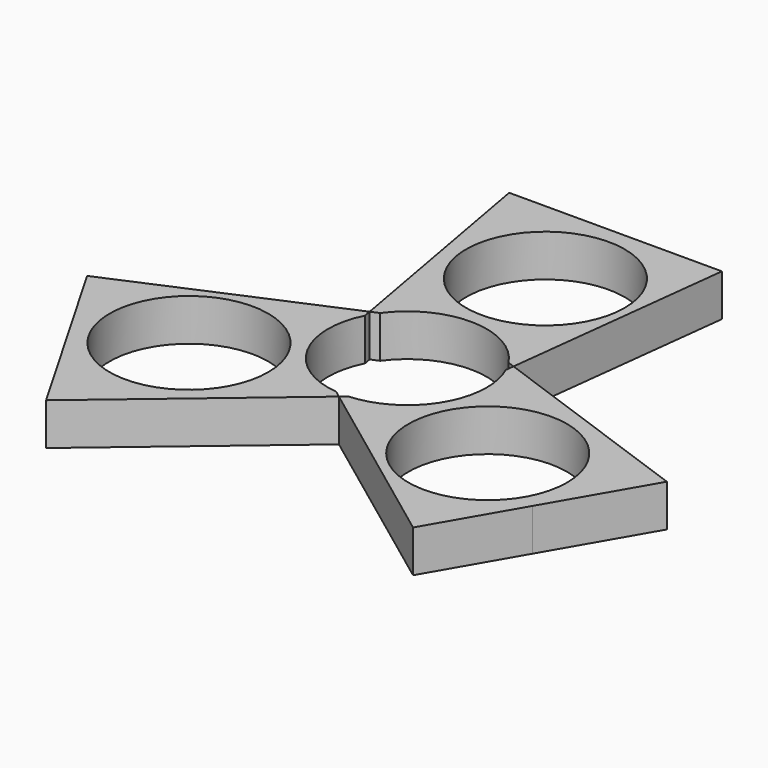
from build123d import *

# Parameters (mm, degrees)
F0_R     = 13.2
F1_DEPTH = 7


with BuildPart() as f1:
    # F0 (on Top) → F1 (new body)
    with BuildSketch(Plane.XY):
        with BuildLine():
            Line((-0.20074, -13.981464), (-1.341508, -13.131655))
            ThreePointArc((-1.341508, -13.131655), (-11.577355, -6.340729), (-11.787386, 5.941173))
            Line((-11.787386, 5.941173), (-12.007933, 7.164578))
            Line((-12.007933, 7.164578), (-46.962543, -7.900784))
            Line((-46.962543, -7.900784), (-38.643047, -22.310574))
            Line((-38.643047, -22.310574), (-29.262875, -38.557508))
            Line((-29.262875, -38.557508), (-0.20074, -13.981464))
        make_face()
        with Locations((-24.858981, -14.352339)):
            Circle(F0_R, mode=Mode.SUBTRACT)
        with BuildLine():
            ThreePointArc((12.043101, 5.404047), (12.907535, 2.763247), (13.2, 0))
            ThreePointArc((13.2, 0), (9.594791, -9.065318), (0.748486, -13.178762))
            Line((0.748486, -13.178762), (-0.20074, -13.981464))
            Line((-0.20074, -13.981464), (30.323551, -36.720364))
            Line((30.323551, -36.720364), (38.643047, -22.310574))
            Line((38.643047, -22.310574), (48.023219, -6.063639))
            Line((48.023219, -6.063639), (12.208673, 6.816886))
            Line((12.208673, 6.816886), (12.043101, 5.404047))
        make_face()
        with Locations((24.858981, -14.352339)):
            Circle(F0_R, mode=Mode.SUBTRACT)
        with BuildLine():
            ThreePointArc((-10.701593, 7.727607), (0.297445, 13.196648), (11.0389, 7.237589))
            Line((11.0389, 7.237589), (12.208673, 6.816886))
            Line((12.208673, 6.816886), (16.638992, 44.621147))
            Line((16.638992, 44.621147), (0, 44.621147))
            Line((0, 44.621147), (-18.760344, 44.621147))
            Line((-18.760344, 44.621147), (-12.007933, 7.164578))
            Line((-12.007933, 7.164578), (-10.701593, 7.727607))
        make_face()
        with Locations((0, 28.704679)):
            Circle(F0_R, mode=Mode.SUBTRACT)
    extrude(amount=F1_DEPTH)


solid = f1.part
